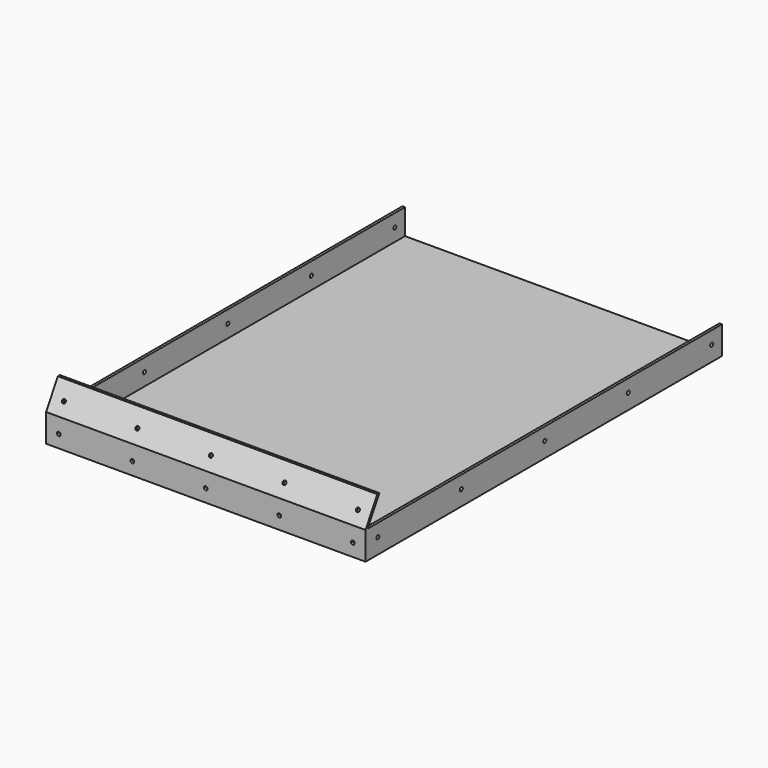
from build123d import *

# Parameters (mm, degrees)
SKETCH063_W     = 251
SKETCH063_H     = 42
PAD011_DEPTH    = 350
POCKET027_DEPTH = 251.001
POCKET028_DEPTH = 251.001
SKETCH039_W     = 2
SKETCH039_H     = 348
PAD034_DEPTH    = 20
SKETCH091_R     = 1.5
POCKET049_DEPTH = 5
SKETCH092_R     = 1.5
POCKET050_DEPTH = 5
SKETCH093_R     = 1.5
POCKET051_DEPTH = 251.001


with BuildPart() as part:
    # Sketch063 (on Face1 of Binder032) → Pad011 (new body)
    with BuildSketch(Plane(origin=(0, -0.1, 0), x_dir=(-1, 0, 0), z_dir=(0, 1, 0))):
        with Locations((-752.5, -204.170471)):
            Rectangle(SKETCH063_W, SKETCH063_H)
    extrude(amount=PAD011_DEPTH)

    # Sketch064 (on Face1 of Pad011) → Pocket027 (cut, through all)
    with BuildSketch(Plane.YZ.offset(878)):
        Polygon((-0.1, -183.170471), (11.464042, -183.170471), (-0.1, -203.2), align=None)
    extrude(amount=-POCKET027_DEPTH, mode=Mode.SUBTRACT)

    # Sketch038 (on Face1 of Pocket027) → Pocket028 (cut, through all)
    with BuildSketch(Plane.YZ.offset(878)):
        Polygon((13.464042, -183.170471), (1.9, -203.2), (1.9, -223.170471), (349.9, -223.170471), (349.9, -183.170471), align=None)
    extrude(amount=-POCKET028_DEPTH, mode=Mode.SUBTRACT)

    # Sketch039 (on Face5 of Pocket028) → Pad034 (join)
    with BuildSketch(Plane.XY.offset(-223.170471)):
        with Locations((877, 175.9)):
            Rectangle(SKETCH039_W, SKETCH039_H)
        with Locations((628, 175.9)):
            Rectangle(SKETCH039_W, SKETCH039_H)
    extrude(amount=PAD034_DEPTH)

    # Sketch091 (on Face5 of Pad034) → Pocket049 (cut)
    with BuildSketch(Plane(origin=(0, 87.913136, -50.75662), x_dir=(1, 0, 0), z_dir=(0, -0.866026, 0.5))):
        with Locations((868, -166.026408)):
            Circle(SKETCH091_R)
        with Locations((810.25, -166.026408)):
            Circle(SKETCH091_R)
        with Locations((752.5, -166.026408)):
            Circle(SKETCH091_R)
        with Locations((694.75, -166.026408)):
            Circle(SKETCH091_R)
        with Locations((637, -166.026408)):
            Circle(SKETCH091_R)
    extrude(amount=-POCKET049_DEPTH, mode=Mode.SUBTRACT)

    # Sketch092 (on Face18 of Pocket049) → Pocket050 (cut)
    with BuildSketch(Plane.XZ.offset(0.1)):
        with Locations((868, -215.170471)):
            Circle(SKETCH092_R)
        with Locations((810.25, -215.170471)):
            Circle(SKETCH092_R)
        with Locations((752.5, -215.170471)):
            Circle(SKETCH092_R)
        with Locations((694.75, -215.170471)):
            Circle(SKETCH092_R)
        with Locations((637, -215.170471)):
            Circle(SKETCH092_R)
    extrude(amount=-POCKET050_DEPTH, mode=Mode.SUBTRACT)

    # Sketch093 (on Face10 of Pocket050) → Pocket051 (cut, through all)
    with BuildSketch(Plane(origin=(627, 0, 0), x_dir=(0, -1, 0), z_dir=(-1, 0, 0))):
        with Locations((-11.917049, -213.170471)):
            Circle(SKETCH093_R)
        with Locations((-93.912786, -213.170471)):
            Circle(SKETCH093_R)
        with Locations((-175.908524, -213.170471)):
            Circle(SKETCH093_R)
        with Locations((-257.904262, -213.170471)):
            Circle(SKETCH093_R)
        with Locations((-339.9, -213.170471)):
            Circle(SKETCH093_R)
    extrude(amount=-POCKET051_DEPTH, mode=Mode.SUBTRACT)


solid = part.part
